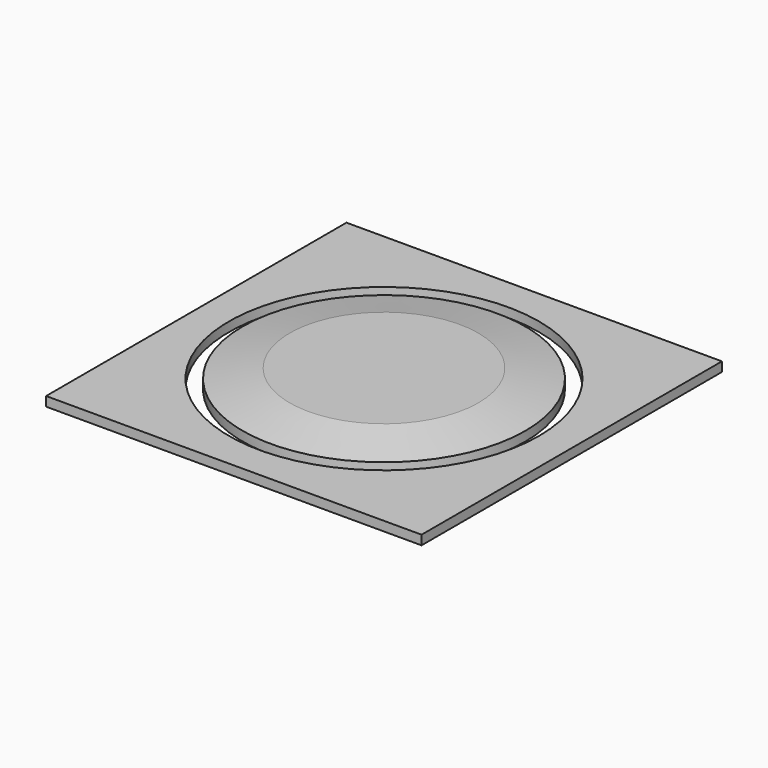
from build123d import *

# Parameters (mm, degrees)
F0_R     = 75.2975201883
F1_DEPTH = 10
F2_SIZE2 = 5
F2_SIZE  = 25
F3_W     = 200
F3_H     = 200
F3_R     = 82.5857424783
F4_DEPTH = 5


with BuildPart() as f1:
    # F0 (on Top) → F1 (new body)
    with BuildSketch(Plane.XY):
        Circle(F0_R)
    extrude(amount=F1_DEPTH)

    # F2
    f2_edges = [f1.edges().sort_by_distance(p)[0] for p in [
        (-75.29752, 0, 10),
    ]]
    f2_side = f1.faces().sort_by_distance((0, 0, 10))[0]
    chamfer(f2_edges, length=F2_SIZE, length2=F2_SIZE2, reference=f2_side)


with BuildPart() as f4:
    # F3 (on face) → F4 (new body)
    with BuildSketch(Plane(origin=(0, 0, 0), x_dir=(1, 0, 0), z_dir=(0, 0, -1))):
        Rectangle(F3_W, F3_H)
        Circle(F3_R, mode=Mode.SUBTRACT)
    extrude(amount=-F4_DEPTH)


solid = Compound([f1.part, f4.part])
